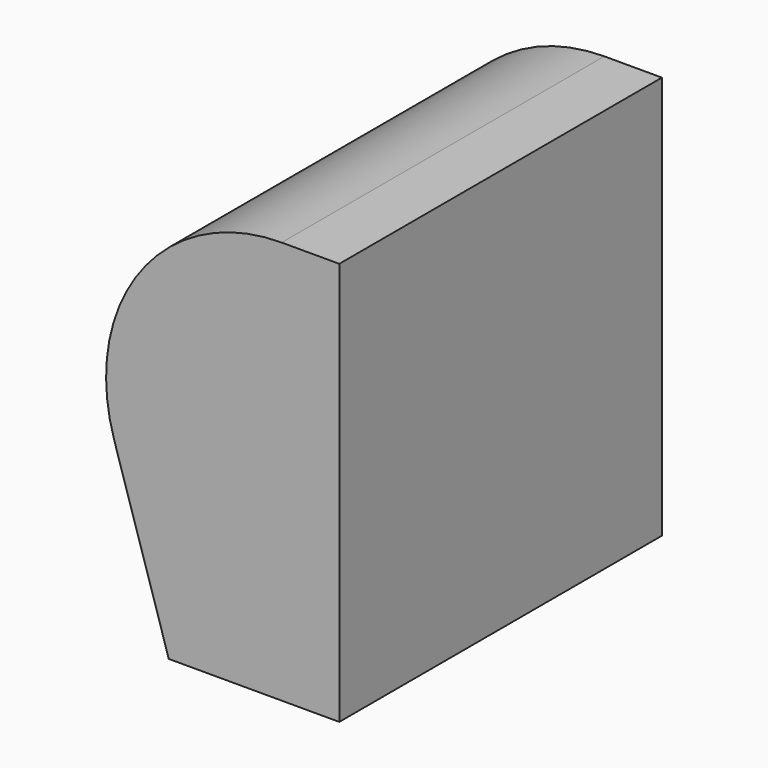
from build123d import *

# Parameters (mm, degrees)
F1_DEPTH = 35


with BuildPart() as f1:
    # F0 (on Front) → F1 (new body, symmetric)
    with BuildSketch(Plane.XZ):
        with BuildLine():
            ThreePointArc((-167.797878, 56.002414), (-192.347484, 43.584723), (-196.891196, 16.451038))
            Line((-196.891196, 16.451038), (-187.393006, -13.997586))
            Line((-187.393006, -13.997586), (-157.797878, -13.997586))
            Line((-157.797878, -13.997586), (-157.797878, 56.002414))
            Line((-157.797878, 56.002414), (-167.797878, 56.002414))
        make_face()
    extrude(amount=F1_DEPTH, both=True)


solid = f1.part
